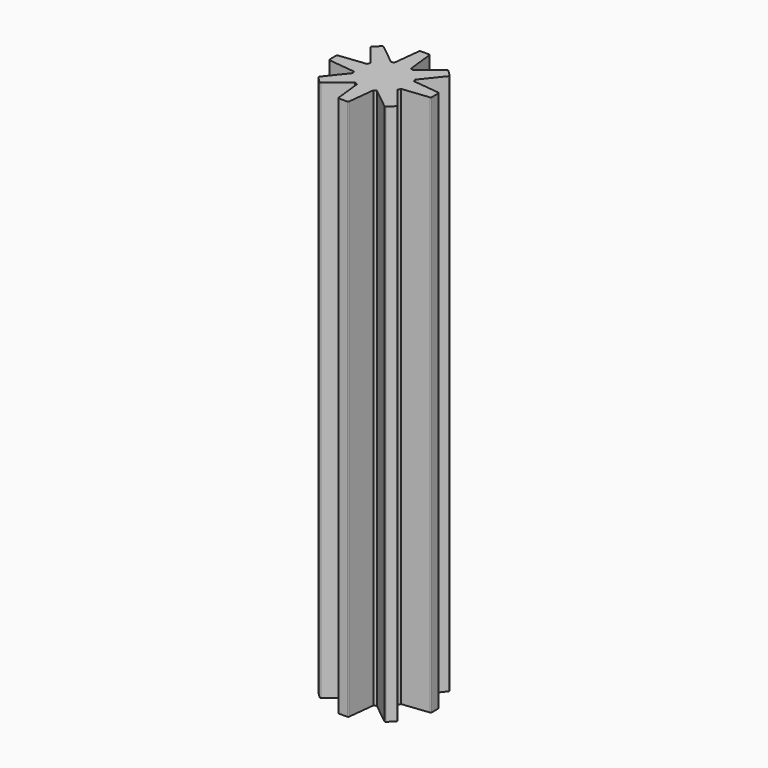
from build123d import *

# Parameters (mm, degrees)
F1_DEPTH = 53
F2_R     = 0.1
F3_R     = 1.40385
F4_DEPTH = 10


with BuildPart() as f1:
    # F0 (on Top) → F1 (new body)
    with BuildSketch(Plane.XY):
        Polygon((0.5, 5), (0, 5), (-0.5, 5), (-0.8, 2.3), (-1.06066, 2.192031), (-3.181981, 3.889087), (-3.535534, 3.535534), (-3.889087, 3.181981), (-2.192031, 1.06066), (-2.3, 0.8), (-5, 0.5), (-5, 0), (-5, -0.5), (-2.3, -0.8), (-2.192031, -1.06066), (-3.889087, -3.181981), (-3.535534, -3.535534), (-3.181981, -3.889087), (-1.06066, -2.192031), (-0.8, -2.3), (-0.5, -5), (0, -5), (0.5, -5), (0.8, -2.3), (1.06066, -2.192031), (3.181981, -3.889087), (3.535534, -3.535534), (3.889087, -3.181981), (2.192031, -1.06066), (2.3, -0.8), (5, -0.5), (5, 0), (5, 0.5), (2.3, 0.8), (2.192031, 1.06066), (3.889087, 3.181981), (3.535534, 3.535534), (3.181981, 3.889087), (1.06066, 2.192031), (0.8, 2.3), align=None)
    extrude(amount=F1_DEPTH)

    # F2
    f2_edges = [f1.edges().sort_by_distance(p)[0] for p in [
        (3.889087, 3.181981, 26.5),
        (3.181981, 3.889087, 26.5),
        (5, 0.5, 26.5),
        (5, -0.5, 26.5),
        (3.889087, -3.181981, 26.5),
        (3.181981, -3.889087, 26.5),
        (-3.889087, -3.181981, 26.5),
        (-3.181981, -3.889087, 26.5),
        (-0.5, -5, 26.5),
        (0.5, -5, 26.5),
        (-5, -0.5, 26.5),
        (-5, 0.5, 26.5),
        (-3.889087, 3.181981, 26.5),
        (-3.181981, 3.889087, 26.5),
        (-0.5, 5, 26.5),
        (0.5, 5, 26.5),
    ]]
    fillet(f2_edges, radius=F2_R)


with BuildPart() as f4:
    # F3 (on face) → F4 (new body)
    with BuildSketch(Plane(origin=(0, 0, 0), x_dir=(1, 0, 0), z_dir=(0, 0, -1))):
        Circle(F3_R)
    extrude(amount=F4_DEPTH)


solid = f1.part
